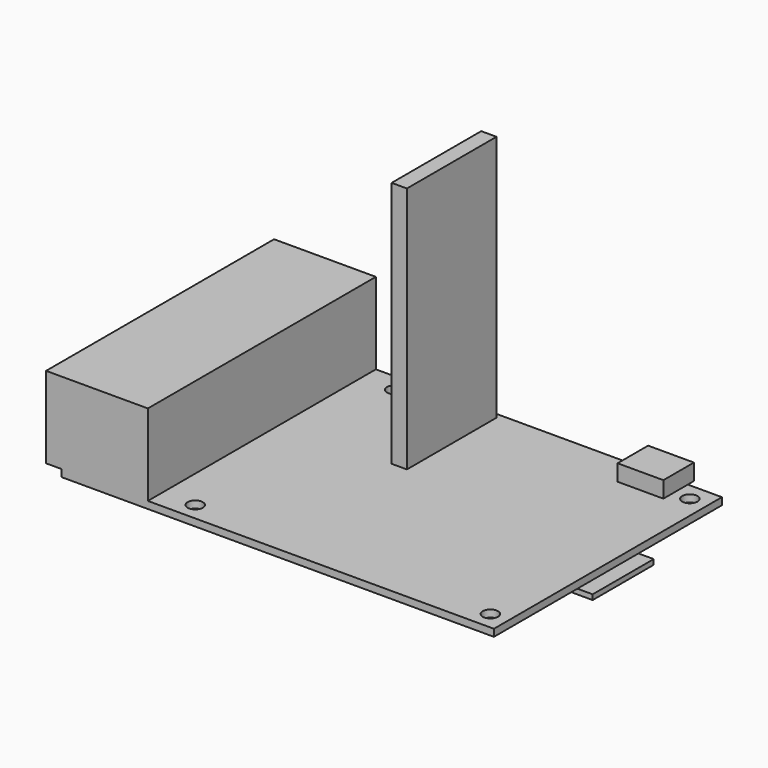
from build123d import *

# Parameters (mm, degrees)
SKETCH005_W  = 85
SKETCH005_H  = 56
SKETCH005_R  = 1.5
PAD003_DEPTH = 1.4
SKETCH009_W  = 20
SKETCH009_H  = 56
PAD007_DEPTH = 16
SKETCH010_W  = 30
SKETCH010_H  = 15
PAD008_DEPTH = 1
SKETCH011_W  = 9
SKETCH011_H  = 7.5
PAD009_DEPTH = 3.2
PAD010_DEPTH = 50


with BuildPart() as part:
    # Sketch005 → Pad003 (new body)
    with BuildSketch(Plane.XY):
        with Locations((42.5, 28)):
            Rectangle(SKETCH005_W, SKETCH005_H)
        with Locations((23.5, 52.5)):
            Circle(SKETCH005_R, mode=Mode.SUBTRACT)
        with Locations((23.5, 3.5)):
            Circle(SKETCH005_R, mode=Mode.SUBTRACT)
        with Locations((81.5, 52.5)):
            Circle(SKETCH005_R, mode=Mode.SUBTRACT)
        with Locations((81.5, 3.5)):
            Circle(SKETCH005_R, mode=Mode.SUBTRACT)
    extrude(amount=PAD003_DEPTH)

    # Sketch009 → Pad007 (join)
    with BuildSketch(Plane.XY.offset(1.4)):
        with Locations((7, 28)):
            Rectangle(SKETCH009_W, SKETCH009_H)
    extrude(amount=PAD007_DEPTH)

    # Sketch010 → Pad008 (join)
    with BuildSketch(Plane.XY):
        with Locations((73, 28)):
            Rectangle(SKETCH010_W, SKETCH010_H)
    extrude(amount=-PAD008_DEPTH)

    # Sketch011 → Pad009 (join)
    with BuildSketch(Plane.XY.offset(1.4)):
        with Locations((73.8, 53.75)):
            Rectangle(SKETCH011_W, SKETCH011_H)
    extrude(amount=PAD009_DEPTH)

    # Sketch013 → Pad010 (join)
    with BuildSketch(Plane.XY):
        Polygon((41.5, 55), (41.5, 33), (38.5, 33), (38.5, 55), (40, 55), align=None)
    extrude(amount=PAD010_DEPTH)


solid = part.part
